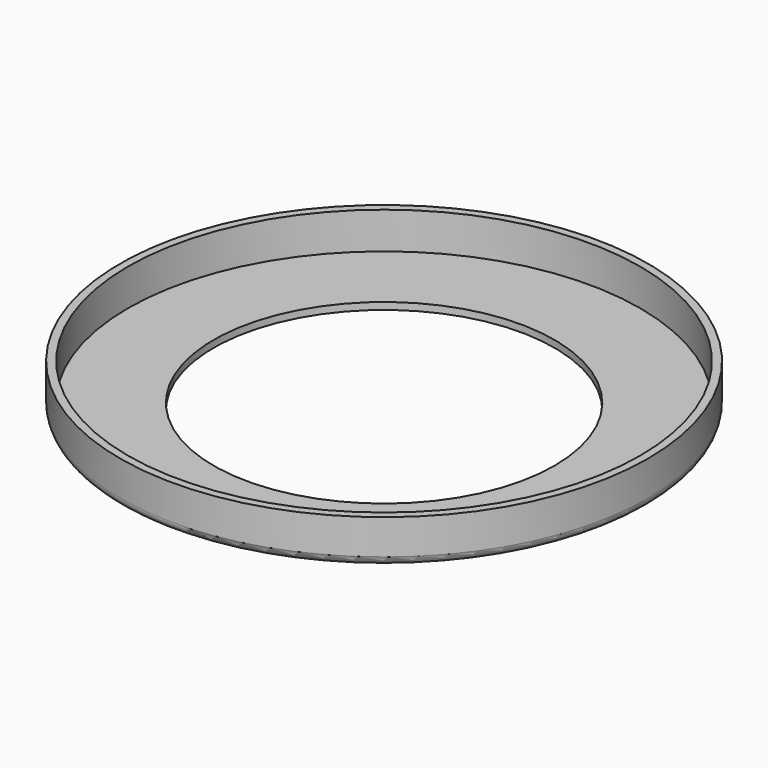
from build123d import *

# Parameters (mm, degrees)
F0_R     = 15.1
F0_R_2   = 9.75
F1_DEPTH = 2.5
F2_R     = 14.65
F3_DEPTH = 2.1
F4_R     = 0.5


with BuildPart() as f1:
    # F0 (on Top) → F1 (new body)
    with BuildSketch(Plane.XY):
        Circle(F0_R)
        Circle(F0_R_2, mode=Mode.SUBTRACT)
    extrude(amount=F1_DEPTH)

    # F2 (on face) → F3 (cut)
    with BuildSketch(Plane.XY.offset(2.5)):
        Circle(F2_R)
    extrude(amount=-F3_DEPTH, mode=Mode.SUBTRACT)

    # F4
    f4_edges = [f1.edges().sort_by_distance(p)[0] for p in [
        (-15.1, 0, 0),
    ]]
    fillet(f4_edges, radius=F4_R)


solid = f1.part
